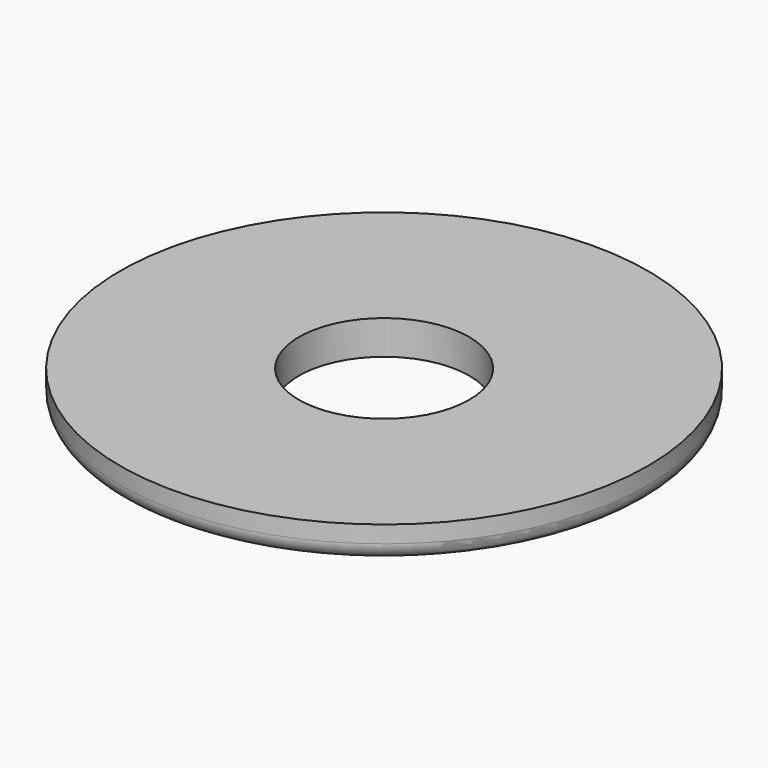
from build123d import *

# Parameters (mm, degrees)
SKETCH001_R  = 7.75
PAD_DEPTH    = 1
FILLET_R     = 0.5
SKETCH002_R  = 2.5
POCKET_DEPTH = 5


with BuildPart() as part:
    # Sketch001 (on Face1 of CopyInvoluteGear) → Pad (new body)
    with BuildSketch(Plane.XY.offset(6.3)):
        Circle(SKETCH001_R)
    extrude(amount=PAD_DEPTH)

    # Fillet
    fillet_edges = [part.edges().sort_by_distance(p)[0] for p in [
        (-7.75, 0, 6.3),
    ]]
    fillet(fillet_edges, radius=FILLET_R)

    # Sketch002 (on Face3 of Fillet) → Pocket (cut)
    with BuildSketch(Plane.XY.offset(7.3)):
        Circle(SKETCH002_R)
    extrude(amount=-POCKET_DEPTH, mode=Mode.SUBTRACT)


solid = part.part
